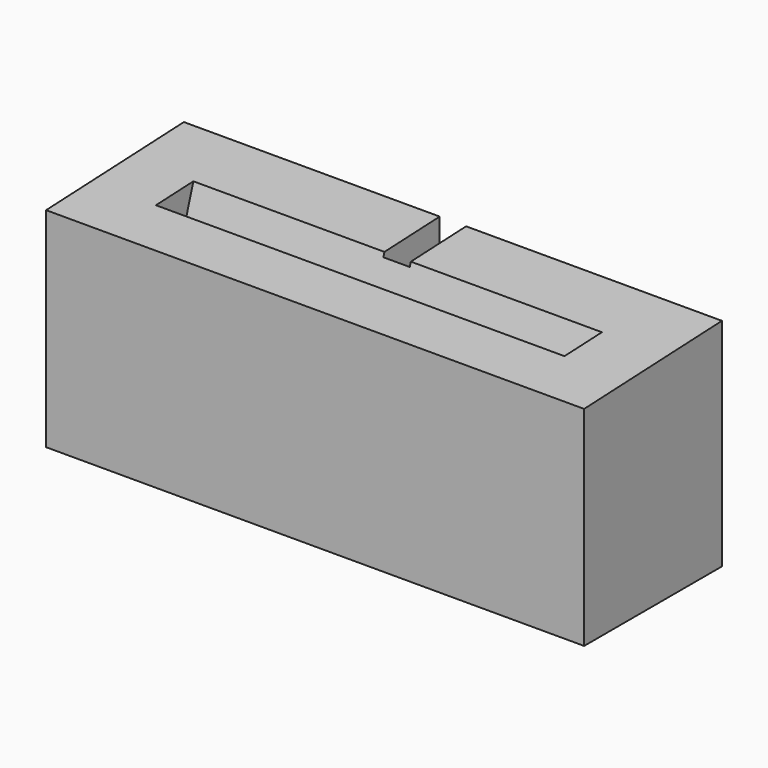
from build123d import *

# Parameters (mm, degrees)
F0_W          = 108.712
F0_H          = 34.798
F1_DEPTH      = 43.688
F3_DEPTH      = 108.713
F4_W          = 5.334
F4_H          = 43.688
F5_DEPTH      = 14.224
F7_DEPTH      = 41.275
F7_DEPTH_BACK = 41.275


with BuildPart() as f1:
    # F0 (on Top) → F1 (new body)
    with BuildSketch(Plane.XY):
        with Locations((0, -6.154203)):
            Rectangle(F0_W, F0_H)
    extrude(amount=F1_DEPTH)

    # F2 (on face) → F3 (cut, through all)
    with BuildSketch(Plane.YZ.offset(54.356)):
        Polygon((-23.553203, 42.164), (11.244797, 43.688), (-23.553203, 43.688), align=None)
    extrude(amount=-F3_DEPTH, mode=Mode.SUBTRACT)

    # F4 (on face) → F5 (cut)
    with BuildSketch(Plane(origin=(0, 11.244797, 0), x_dir=(-1, 0, 0), z_dir=(0, 1, 0))):
        with Locations((0, 21.844)):
            Rectangle(F4_W, F4_H)
    extrude(amount=-F5_DEPTH, mode=Mode.SUBTRACT)

    # F6 (on Right) → F7 (cut, two sides)
    with BuildSketch(Plane.YZ) as f7_sk:
        Polygon((-8.7243, 23.997865), (3.653318, 63.273063), (-5.817524, 62.797693), (-17.203203, 26.67), align=None)
    extrude(amount=F7_DEPTH, mode=Mode.SUBTRACT)
    extrude(f7_sk.sketch, amount=-F7_DEPTH_BACK, mode=Mode.SUBTRACT)


solid = f1.part
